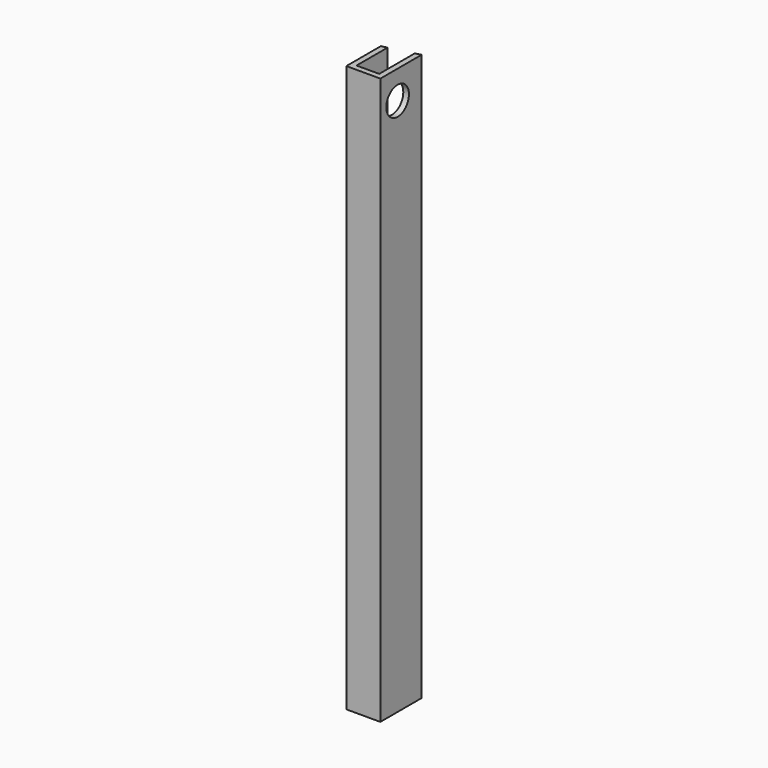
from build123d import *

# Parameters (mm, degrees)
F0_W     = 20
F0_H     = 5
F1_DEPTH = 500
F2_R     = 12.5
F3_DEPTH = 50


with BuildPart() as f1:
    # F0 (on Top) → F1 (new body)
    with BuildSketch(Plane.XY):
        with BuildLine():
            Line((-9.995486, -11.592771), (-9.995486, 27.50601))
            ThreePointArc((-9.995486, 27.50601), (-12.499174, 28.243273), (-14.995486, 29.005138))
            Line((-14.995486, 29.005138), (-14.995486, -16.592771))
            Line((-14.995486, -16.592771), (-9.995486, -16.592771))
            Line((-9.995486, -16.592771), (-9.995486, -11.592771))
        make_face()
        with Locations((0.004514, -14.092771)):
            Rectangle(F0_W, F0_H)
        with BuildLine():
            Line((15.004514, -16.592771), (15.004514, 21.573286))
            ThreePointArc((15.004514, 21.573286), (12.502153, 22.05284), (10.004514, 22.55641))
            Line((10.004514, 22.55641), (10.004514, -11.592771))
            Line((10.004514, -11.592771), (10.004514, -16.592771))
            Line((10.004514, -16.592771), (15.004514, -16.592771))
        make_face()
    extrude(amount=F1_DEPTH)

    # F2 (on face) → F3 (cut)
    with BuildSketch(Plane.YZ.offset(15.004514)):
        with Locations((2.490257, 475)):
            Circle(F2_R)
    extrude(amount=-F3_DEPTH, mode=Mode.SUBTRACT)


with BuildPart() as f4_1:
    # F4: instance of F1
    add(f1.part.mirror(Plane.YZ))


solid = f4_1.part
